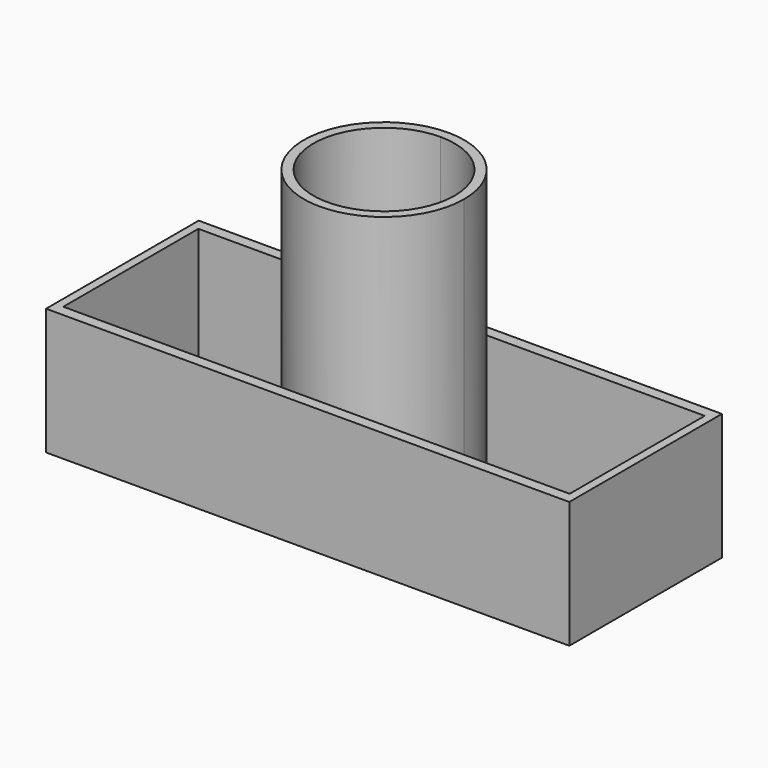
from build123d import *

# Parameters (mm, degrees)
F1_DEPTH = 70
F2_W     = 124
F2_H     = 45.206268
F2_W_2   = 120
F2_H_2   = 40
F3_DEPTH = 30


with BuildPart() as f1:
    # F0 (on Top) → F1 (new body)
    with BuildSketch(Plane.XY):
        with BuildLine():
            ThreePointArc((19, 0), (13.435029, 13.435029), (0, 19))
            ThreePointArc((0, 19), (-13.435029, -13.435029), (19, 0))
        make_face()
        with BuildLine():
            ThreePointArc((0, 16.75), (11.844039, 11.844039), (16.75, 0))
            ThreePointArc((16.75, 0), (-11.844039, -11.844039), (0, 16.75))
        make_face(mode=Mode.SUBTRACT)
    extrude(amount=F1_DEPTH)


with BuildPart() as f3:
    # F2 (on Top) → F3 (new body)
    with BuildSketch(Plane.XY):
        Rectangle(F2_W, F2_H)
        Rectangle(F2_W_2, F2_H_2, mode=Mode.SUBTRACT)
    extrude(amount=F3_DEPTH)


solid = Compound([f1.part, f3.part])
